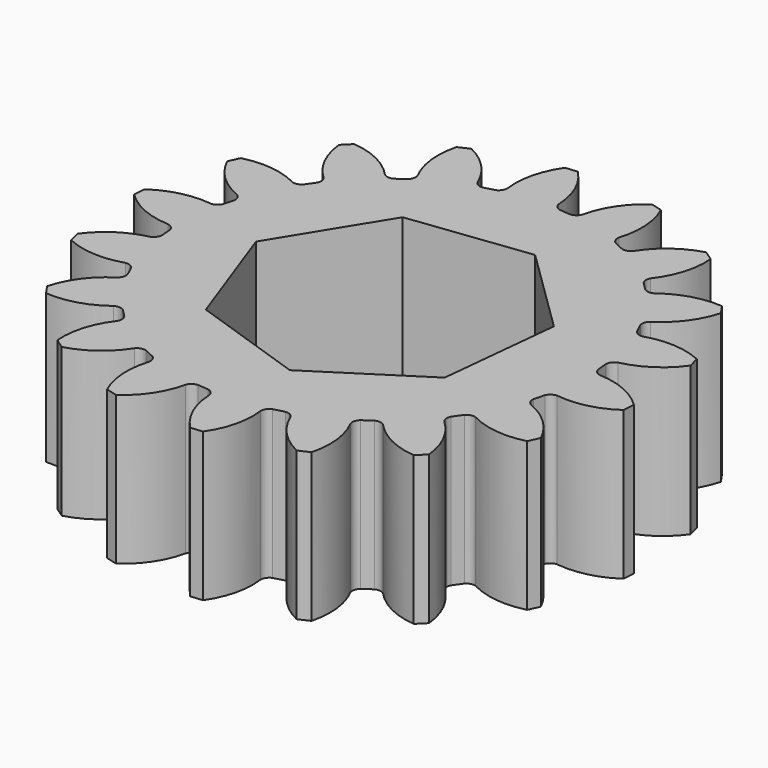
from build123d import *

# Parameters (mm, degrees)
F1_DEPTH = 10


with BuildPart() as f1:
    # F0 (on Top) → F1 (new body)
    with BuildSketch(Plane.XY):
        with BuildLine():
            ThreePointArc((0.834247, 13.754724), (0.539473, 13.922611), (0.384061, 14.224148))
            ThreePointArc((0.384061, 14.224148), (-0.053041, 16.126356), (-1.146638, 17.742988))
            Line((-1.146638, 17.742988), (-1.950006, 17.672744))
            ThreePointArc((-1.950006, 17.672744), (-2.74627, 15.891587), (-2.846993, 13.943148))
            ThreePointArc((-2.846993, 13.943148), (-2.94723, 13.618388), (-3.20868, 13.401223))
            Line((-3.20868, 13.401223), (-3.920457, 13.210542))
            ThreePointArc((-3.920457, 13.210542), (-4.254874, 13.267486), (-4.504046, 13.497684))
            ThreePointArc((-4.504046, 13.497684), (-5.565381, 15.135677), (-7.145946, 16.280782))
            Line((-7.145946, 16.280782), (-7.876841, 15.940006))
            ThreePointArc((-7.876841, 15.940006), (-8.015892, 13.993927), (-7.444136, 12.128545))
            ThreePointArc((-7.444136, 12.128545), (-7.427254, 11.789086), (-7.598661, 11.495597))
            Line((-7.598661, 11.495597), (-8.202296, 11.072974))
            ThreePointArc((-8.202296, 11.072974), (-8.536021, 11.012106), (-8.848898, 11.1432))
            ThreePointArc((-8.848898, 11.1432), (-10.406453, 12.319412), (-12.283348, 12.854873))
            Line((-12.283348, 12.854873), (-12.853612, 12.284668))
            ThreePointArc((-12.853612, 12.284668), (-12.31868, 10.408393), (-11.143406, 8.85106))
            ThreePointArc((-11.143406, 8.85106), (-11.01144, 8.537847), (-11.072132, 8.203432))
            Line((-11.072132, 8.203432), (-11.494817, 7.599841))
            ThreePointArc((-11.494817, 7.599841), (-11.787598, 7.428503), (-12.126443, 7.444681))
            ThreePointArc((-12.126443, 7.444681), (-13.992354, 8.017243), (-15.939197, 7.878477))
            Line((-15.939197, 7.878477), (-16.280048, 7.147617))
            ThreePointArc((-16.280048, 7.147617), (-15.135653, 5.567454), (-13.498617, 4.506006))
            ThreePointArc((-13.498617, 4.506006), (-13.267485, 4.256818), (-13.21014, 3.921813))
            Line((-13.21014, 3.921813), (-13.400893, 3.210056))
            ThreePointArc((-13.400893, 3.210056), (-13.617417, 2.948914), (-13.94136, 2.848224))
            ThreePointArc((-13.94136, 2.848224), (-15.890571, 2.748077), (-17.672544, 1.95182))
            Line((-17.672544, 1.95182), (-17.74287, 1.148459))
            ThreePointArc((-17.74287, 1.148459), (-16.127043, 0.054997), (-14.225696, -0.382538))
            ThreePointArc((-14.225696, -0.382538), (-13.923275, -0.537647), (-13.75481, -0.832836))
            Line((-13.75481, -0.832836), (-13.690624, -1.566909))
            ThreePointArc((-13.690624, -1.566909), (-13.804774, -1.886358), (-14.074743, -2.091771))
            ThreePointArc((-14.074743, -2.091771), (-15.87215, -2.852547), (-17.274321, -4.210255))
            Line((-17.274321, -4.210255), (-17.06564, -4.989221))
            ThreePointArc((-17.06564, -4.989221), (-15.173273, -5.464093), (-13.236946, -5.224943))
            ThreePointArc((-13.236946, -5.224943), (-12.899713, -5.267264), (-12.640446, -5.487031))
            Line((-12.640446, -5.487031), (-12.329064, -6.154883))
            ThreePointArc((-12.329064, -6.154883), (-12.327072, -6.494108), (-12.510505, -6.779467))
            ThreePointArc((-12.510505, -6.779467), (-13.939314, -8.109113), (-14.79256, -9.864511))
            Line((-14.79256, -9.864511), (-14.330042, -10.525127))
            ThreePointArc((-14.330042, -10.525127), (-12.389383, -10.324133), (-10.651624, -9.437142))
            ThreePointArc((-10.651624, -9.437142), (-10.320255, -9.36157), (-10.001459, -9.47941))
            Line((-10.001459, -9.47941), (-9.480437, -10.000486))
            ThreePointArc((-9.480437, -10.000486), (-9.362542, -10.318572), (-9.437314, -10.64946))
            ThreePointArc((-9.437314, -10.64946), (-10.32519, -12.387599), (-10.526598, -14.328962))
            Line((-10.526598, -14.328962), (-9.86603, -14.791547))
            ThreePointArc((-9.86603, -14.791547), (-8.11115, -13.93893), (-6.78156, -12.511083))
            ThreePointArc((-6.78156, -12.511083), (-6.496022, -12.326734), (-6.156148, -12.328432))
            Line((-6.156148, -12.328432), (-5.488329, -12.639883))
            ThreePointArc((-5.488329, -12.639883), (-5.268753, -12.898464), (-5.225845, -13.234971))
            ThreePointArc((-5.225845, -13.234971), (-5.465697, -15.171959), (-4.990972, -17.065128))
            Line((-4.990972, -17.065128), (-4.212028, -17.273888))
            ThreePointArc((-4.212028, -17.273888), (-2.854593, -15.872486), (-2.093539, -14.076003))
            ThreePointArc((-2.093539, -14.076003), (-1.888272, -13.805111), (-1.568315, -13.690463))
            Line((-1.568315, -13.690463), (-0.834247, -13.754724))
            ThreePointArc((-0.834247, -13.754724), (-0.539473, -13.922611), (-0.384061, -14.224148))
            ThreePointArc((-0.384061, -14.224148), (0.053041, -16.126356), (1.146638, -17.742988))
            Line((1.146638, -17.742988), (1.950006, -17.672744))
            ThreePointArc((1.950006, -17.672744), (2.74627, -15.891587), (2.846993, -13.943148))
            ThreePointArc((2.846993, -13.943148), (2.94723, -13.618388), (3.20868, -13.401223))
            Line((3.20868, -13.401223), (3.920457, -13.210542))
            ThreePointArc((3.920457, -13.210542), (4.254874, -13.267486), (4.504046, -13.497684))
            ThreePointArc((4.504046, -13.497684), (5.565381, -15.135677), (7.145946, -16.280782))
            Line((7.145946, -16.280782), (7.876841, -15.940006))
            ThreePointArc((7.876841, -15.940006), (8.015892, -13.993927), (7.444136, -12.128545))
            ThreePointArc((7.444136, -12.128545), (7.427254, -11.789086), (7.598661, -11.495597))
            Line((7.598661, -11.495597), (8.202296, -11.072974))
            ThreePointArc((8.202296, -11.072974), (8.536021, -11.012106), (8.848898, -11.1432))
            ThreePointArc((8.848898, -11.1432), (10.406453, -12.319412), (12.283348, -12.854873))
            Line((12.283348, -12.854873), (12.853612, -12.284668))
            ThreePointArc((12.853612, -12.284668), (12.31868, -10.408393), (11.143406, -8.85106))
            ThreePointArc((11.143406, -8.85106), (11.01144, -8.537847), (11.072132, -8.203432))
            Line((11.072132, -8.203432), (11.494817, -7.599841))
            ThreePointArc((11.494817, -7.599841), (11.787598, -7.428503), (12.126443, -7.444681))
            ThreePointArc((12.126443, -7.444681), (13.992354, -8.017243), (15.939197, -7.878477))
            Line((15.939197, -7.878477), (16.280048, -7.147617))
            ThreePointArc((16.280048, -7.147617), (15.135653, -5.567454), (13.498617, -4.506006))
            ThreePointArc((13.498617, -4.506006), (13.267485, -4.256818), (13.21014, -3.921813))
            Line((13.21014, -3.921813), (13.400893, -3.210056))
            ThreePointArc((13.400893, -3.210056), (13.617417, -2.948914), (13.94136, -2.848224))
            ThreePointArc((13.94136, -2.848224), (15.890571, -2.748077), (17.672544, -1.95182))
            Line((17.672544, -1.95182), (17.74287, -1.148459))
            ThreePointArc((17.74287, -1.148459), (16.127043, -0.054997), (14.225696, 0.382538))
            ThreePointArc((14.225696, 0.382538), (13.923275, 0.537647), (13.75481, 0.832836))
            Line((13.75481, 0.832836), (13.690624, 1.566909))
            ThreePointArc((13.690624, 1.566909), (13.804774, 1.886358), (14.074743, 2.091771))
            ThreePointArc((14.074743, 2.091771), (15.87215, 2.852547), (17.274321, 4.210255))
            Line((17.274321, 4.210255), (17.06564, 4.989221))
            ThreePointArc((17.06564, 4.989221), (15.173273, 5.464093), (13.236946, 5.224943))
            ThreePointArc((13.236946, 5.224943), (12.899713, 5.267264), (12.640446, 5.487031))
            Line((12.640446, 5.487031), (12.329064, 6.154883))
            ThreePointArc((12.329064, 6.154883), (12.327072, 6.494108), (12.510505, 6.779467))
            ThreePointArc((12.510505, 6.779467), (13.939314, 8.109113), (14.79256, 9.864511))
            Line((14.79256, 9.864511), (14.330042, 10.525127))
            ThreePointArc((14.330042, 10.525127), (12.389383, 10.324133), (10.651624, 9.437142))
            ThreePointArc((10.651624, 9.437142), (10.320255, 9.36157), (10.001459, 9.47941))
            Line((10.001459, 9.47941), (9.480437, 10.000486))
            ThreePointArc((9.480437, 10.000486), (9.362542, 10.318572), (9.437314, 10.64946))
            ThreePointArc((9.437314, 10.64946), (10.32519, 12.387599), (10.526598, 14.328962))
            Line((10.526598, 14.328962), (9.86603, 14.791547))
            ThreePointArc((9.86603, 14.791547), (8.11115, 13.93893), (6.78156, 12.511083))
            ThreePointArc((6.78156, 12.511083), (6.496022, 12.326734), (6.156148, 12.328432))
            Line((6.156148, 12.328432), (5.488329, 12.639883))
            ThreePointArc((5.488329, 12.639883), (5.268753, 12.898464), (5.225845, 13.234971))
            ThreePointArc((5.225845, 13.234971), (5.465697, 15.171959), (4.990972, 17.065128))
            Line((4.990972, 17.065128), (4.212028, 17.273888))
            ThreePointArc((4.212028, 17.273888), (2.854593, 15.872486), (2.093539, 14.076003))
            ThreePointArc((2.093539, 14.076003), (1.888272, 13.805111), (1.568315, 13.690463))
            Line((1.568315, 13.690463), (0.834247, 13.754724))
        make_face()
        Polygon((8.873521, 3.204124), (8.037635, -4.93986), (1.149246, -9.364028), (-6.604549, -6.736893), (-9.384984, 0.96326), (-5.098334, 7.938059), (3.027465, 8.935337), align=None, mode=Mode.SUBTRACT)
    extrude(amount=F1_DEPTH)


solid = f1.part
